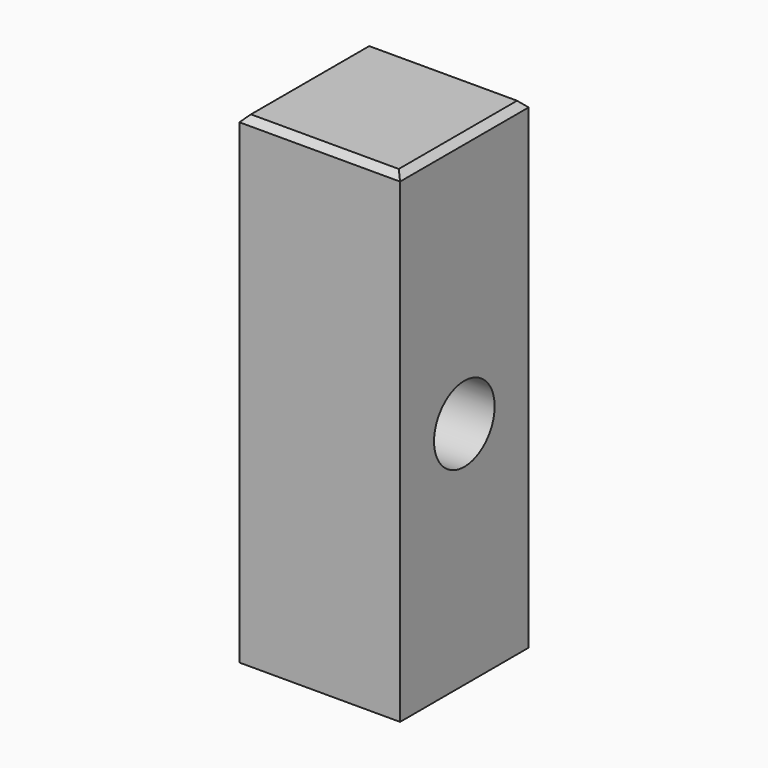
from build123d import *

# Parameters (mm, degrees)
F0_W     = 50
F0_H     = 50
F1_DEPTH = 150
F2_R     = 11.784689
F3_DEPTH = 131.62777
F4_SIZE  = 2


with BuildPart() as f1:
    # F0 (on Top) → F1 (new body)
    with BuildSketch(Plane.XY):
        with Locations((-25, -25)):
            Rectangle(F0_W, F0_H)
    extrude(amount=F1_DEPTH)

    # F2 (on face) → F3 (cut)
    with BuildSketch(Plane(origin=(-50, 0, 0), x_dir=(0, -1, 0), z_dir=(-1, 0, 0))):
        with Locations((25, 71.490675)):
            Circle(F2_R)
    extrude(amount=-F3_DEPTH, mode=Mode.SUBTRACT)

    # F4
    f4_edges = [f1.edges().sort_by_distance(p)[0] for p in [
        (-50, -25, 150),
        (0, -25, 150),
        (-25, -50, 150),
        (-25, 0, 150),
    ]]
    chamfer(f4_edges, length=F4_SIZE)


solid = f1.part
